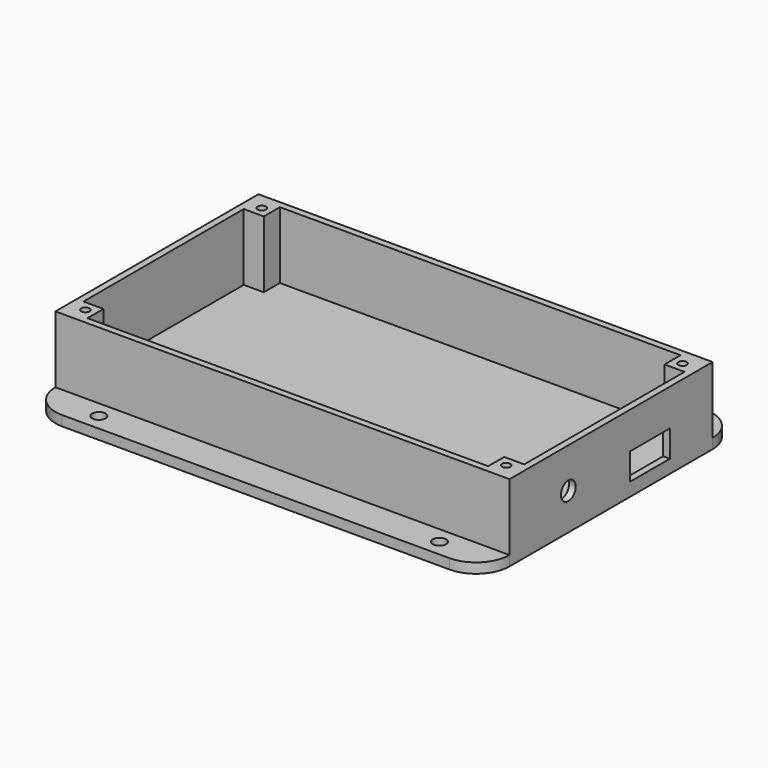
from build123d import *

# Parameters (mm, degrees)
SKETCH_R        = 2
PAD_DEPTH       = 3
SKETCH001_W     = 136
SKETCH001_H     = 76
PAD001_DEPTH    = 20
SKETCH002_R     = 1.25
POCKET_DEPTH    = 23
SKETCH003_R     = 2.75
SKETCH003_W     = 15
SKETCH003_H     = 8
POCKET001_DEPTH = 5


with BuildPart() as part:
    # Sketch → Pad (new body)
    with BuildSketch(Plane.XY):
        with BuildLine():
            Line((-58, 48), (58, 48))
            ThreePointArc((68, 38), (65.071068, 45.071068), (58, 48))
            Line((68, 38), (68, -38))
            ThreePointArc((58, -48), (65.071068, -45.071068), (68, -38))
            Line((58, -48), (-58, -48))
            ThreePointArc((-68, -38), (-65.071068, -45.071068), (-58, -48))
            Line((-68, -38), (-68, 38))
            ThreePointArc((-58, 48), (-65.071068, 45.071068), (-68, 38))
        make_face()
        with Locations((-51, 43)):
            Circle(SKETCH_R, mode=Mode.SUBTRACT)
        with Locations((51, 43)):
            Circle(SKETCH_R, mode=Mode.SUBTRACT)
        with Locations((-51, -43)):
            Circle(SKETCH_R, mode=Mode.SUBTRACT)
        with Locations((51, -43)):
            Circle(SKETCH_R, mode=Mode.SUBTRACT)
    extrude(amount=PAD_DEPTH)

    # Sketch001 (on Face14 of Pad) → Pad001 (join)
    with BuildSketch(Plane.XY.offset(3)):
        Rectangle(SKETCH001_W, SKETCH001_H)
        Polygon((-60, 36), (60, 36), (60, 30), (66, 30), (66, -30), (60, -30), (60, -36), (-60, -36), (-60, -30), (-66, -30), (-66, 30), (-60, 30), align=None, mode=Mode.SUBTRACT)
    extrude(amount=PAD001_DEPTH)

    # Sketch002 → Pocket (cut)
    with BuildSketch(Plane.XY.offset(23)):
        with Locations((63, -33)):
            Circle(SKETCH002_R)
        with Locations((-63, -33)):
            Circle(SKETCH002_R)
        with Locations((-63, 33)):
            Circle(SKETCH002_R)
        with Locations((63, 33)):
            Circle(SKETCH002_R)
    extrude(amount=-POCKET_DEPTH, mode=Mode.SUBTRACT)

    # Sketch003 (on Face24 of Pocket) → Pocket001 (cut)
    with BuildSketch(Plane.YZ.offset(68)):
        with Locations((-16, 11)):
            Circle(SKETCH003_R)
        with Locations((14.5, 8)):
            Rectangle(SKETCH003_W, SKETCH003_H)
    extrude(amount=-POCKET001_DEPTH, mode=Mode.SUBTRACT)


solid = part.part
